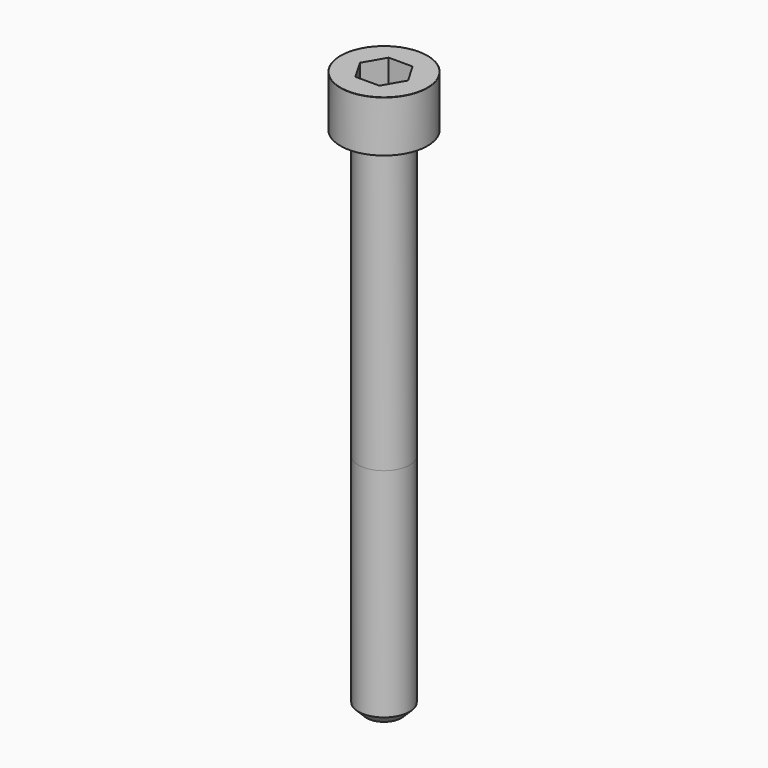
from build123d import *

# Parameters (mm, degrees)
POCKET_DEPTH = 4.06


with BuildPart() as part:
    # Sketch → Revolve (revolve)
    with BuildSketch(Plane.YZ):
        with BuildLine():
            Line((2.499, 0), (4.25, 0))
            Line((4.25, 0), (4.25, 4.97229))
            ThreePointArc((4.25, 4.97229), (4.241884, 4.991884), (4.22229, 5))
            Line((4.22229, 5), (0, 5))
            Line((0, -50), (0, 5))
            Line((1.7, -50), (0, -50))
            Line((2.5, -49.2), (1.7, -50))
            Line((2.5, -28), (2.5, -49.2))
            Line((2.499, 0), (2.5, -28))
        make_face()
    revolve(axis=Axis((0, 0, 0), (0, 0, 1)))

    # Sketch001 → Pocket (cut)
    with BuildSketch(Plane.XY.offset(5)):
        Polygon((2.344042, 0), (1.172021, 2.03), (-1.172021, 2.03), (-2.344042, 0), (-1.172021, -2.03), (1.172021, -2.03), align=None)
    extrude(amount=-POCKET_DEPTH, mode=Mode.SUBTRACT)


solid = part.part
